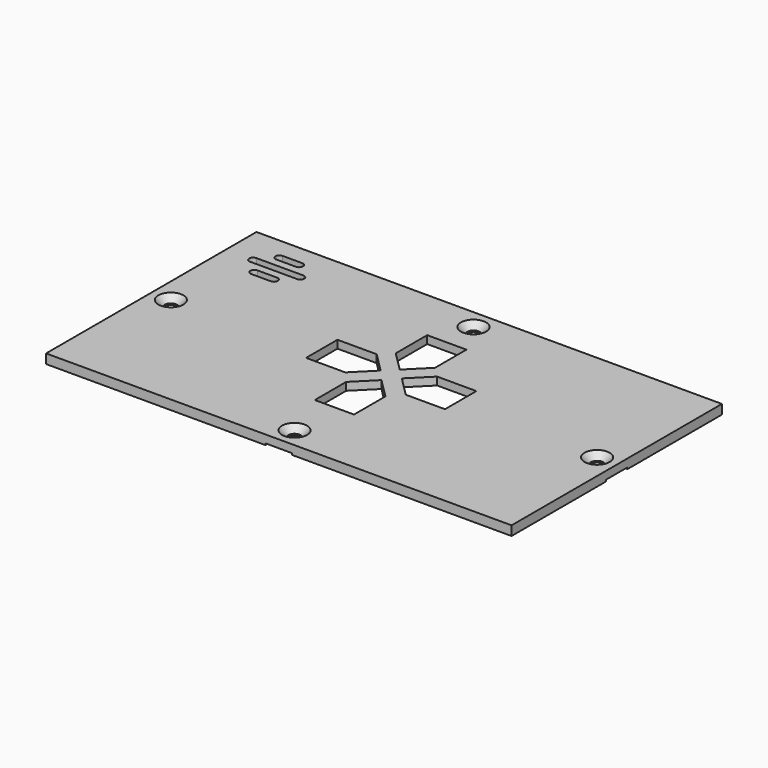
from build123d import *

# Parameters (mm, degrees)
SKETCH049_W     = 118.6
SKETCH049_H     = 67
PAD008_DEPTH    = 2
SKETCH050_R     = 1.6
POCKET017_DEPTH = 2
CHAMFER001_SIZE = 1.6
PAD018_DEPTH    = 0.4
POCKET023_DEPTH = 2.401


with BuildPart() as part:
    # Sketch049 → Pad008 (new body)
    with BuildSketch(Plane.XY):
        with Locations((0, -40.1)):
            Rectangle(SKETCH049_W, SKETCH049_H)
    extrude(amount=-PAD008_DEPTH)

    # Sketch050 (on Face5 of Pad008) → Pocket017 (cut)
    with BuildSketch(Plane.XY):
        with Locations((0, -11.6)):
            Circle(SKETCH050_R)
        with Locations((54.3, -40.1)):
            Circle(SKETCH050_R)
        with Locations((-54.3, -40.1)):
            Circle(SKETCH050_R)
        with Locations((0, -68.6)):
            Circle(SKETCH050_R)
    extrude(amount=-POCKET017_DEPTH, mode=Mode.SUBTRACT)

    # Chamfer001
    chamfer001_edges = [part.edges().sort_by_distance(p)[0] for p in [
        (-55.9, -40.1, 0),
        (-1.6, -11.6, 0),
        (52.7, -40.1, 0),
        (-1.6, -68.6, 0),
    ]]
    chamfer(chamfer001_edges, length=CHAMFER001_SIZE)

    # Sketch052 (on Face11 of Chamfer001) → Pad018 (join)
    with BuildSketch(Plane(origin=(0, 0, -2), x_dir=(1, 0, 0), z_dir=(0, 0, -1))):
        Polygon((-59.3, 73.6), (-3.4, 73.6), (-3.4, 71.6), (-57.3, 71.6), (-57.3, 43.5), (-59.3, 43.5), align=None)
        Polygon((59.3, 73.6), (3.4, 73.6), (3.4, 71.6), (57.3, 71.6), (57.3, 43.5), (59.3, 43.5), align=None)
        Polygon((59.3, 6.6), (3.4, 6.6), (3.4, 8.6), (57.3, 8.6), (57.3, 36.7), (59.3, 36.7), align=None)
        Polygon((-59.3, 6.6), (-3.4, 6.6), (-3.4, 8.6), (-57.3, 8.6), (-57.3, 36.7), (-59.3, 36.7), align=None)
    extrude(amount=PAD018_DEPTH)

    # Sketch065 (on Face1 of Pad018) → Pocket023 (cut, through all)
    with BuildSketch(Plane.XY):
        with BuildLine():
            ThreePointArc((-48.8, -11.4), (-49.8, -12.4), (-48.8, -13.4))
            Line((-48.8, -13.4), (-43.8, -13.4))
            ThreePointArc((-43.8, -13.4), (-42.8, -12.4), (-43.8, -11.4))
            Line((-48.8, -11.4), (-43.8, -11.4))
        make_face()
        with BuildLine():
            ThreePointArc((-52.3, -15.4), (-53.3, -16.4), (-52.3, -17.4))
            Line((-52.3, -17.4), (-40.3, -17.4))
            ThreePointArc((-40.3, -17.4), (-39.3, -16.4), (-40.3, -15.4))
            Line((-52.3, -15.4), (-40.3, -15.4))
        make_face()
        with BuildLine():
            ThreePointArc((-48.8, -19.4), (-49.8, -20.4), (-48.8, -21.4))
            Line((-48.8, -21.4), (-43.8, -21.4))
            ThreePointArc((-43.8, -21.4), (-42.8, -20.4), (-43.8, -19.4))
            Line((-48.8, -19.4), (-43.8, -19.4))
        make_face()
        Polygon((-17.7, -32.8), (-7.7, -32.8), (-2.7, -37.8), (-7.7, -42.8), (-17.7, -42.8), align=None)
        Polygon((-5, -20.1), (5, -20.1), (5, -30.1), (0, -35.1), (-5, -30.1), align=None)
        Polygon((7.7, -32.8), (17.7, -32.8), (17.7, -42.8), (7.7, -42.8), (2.7, -37.8), align=None)
        Polygon((5, -45.9), (5, -55.9), (-5, -55.9), (-5, -45.9), (0, -40.9), align=None)
    extrude(amount=-POCKET023_DEPTH, mode=Mode.SUBTRACT)


solid = part.part
